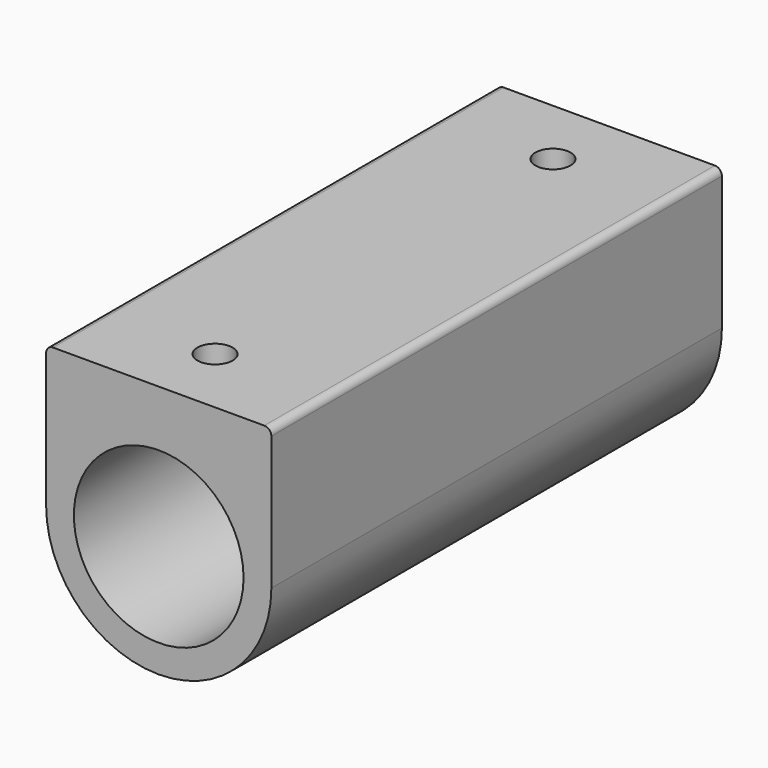
from build123d import *

# Parameters (mm, degrees)
F0_R     = 6.025
F1_DEPTH = 40
F2_R     = 1.25
F3_DEPTH = 4.1
F4_R     = 0.5


with BuildPart() as f1:
    # F0 (on Front) → F1 (new body)
    with BuildSketch(Plane.XZ):
        with BuildLine():
            Line((-8, 10), (-8, 0))
            ThreePointArc((-8, 0), (0, -8), (8, 0))
            Line((8, 0), (8, 10))
            Line((8, 10), (-8, 10))
        make_face()
        Circle(F0_R, mode=Mode.SUBTRACT)
    extrude(amount=F1_DEPTH)

    # F2 (on face) → F3 (cut)
    with BuildSketch(Plane.XY.offset(10)):
        with Locations((0, -5)):
            Circle(F2_R)
        with Locations((0, -35)):
            Circle(F2_R)
    extrude(amount=-F3_DEPTH, mode=Mode.SUBTRACT)

    # F4
    f4_edges = [f1.edges().sort_by_distance(p)[0] for p in [
        (-8, -20, 10),
        (8, -20, 10),
    ]]
    fillet(f4_edges, radius=F4_R)


solid = f1.part
